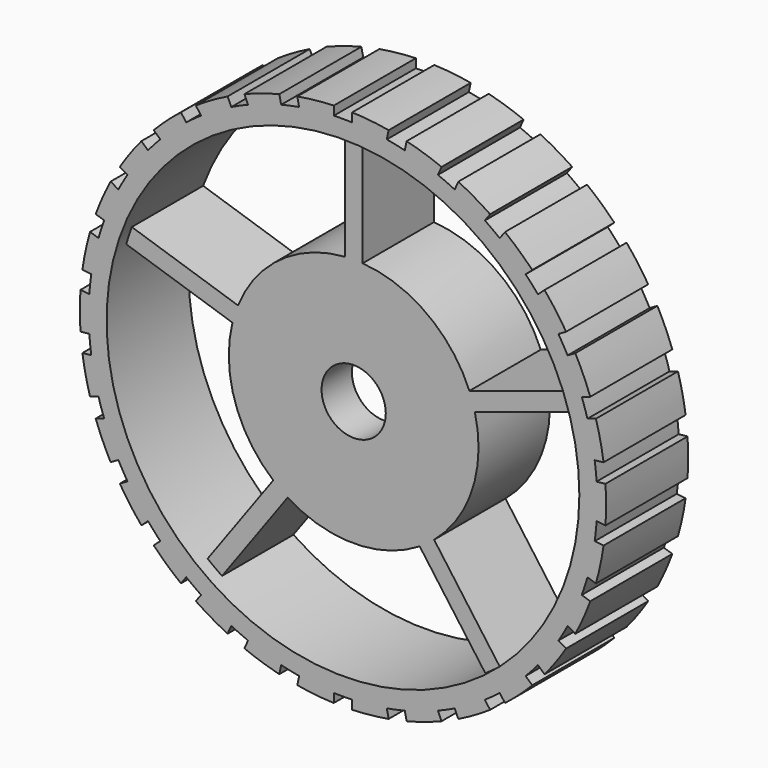
from build123d import *

# Parameters (mm, degrees)
SKETCH_R              = 29.5
PAD_DEPTH             = 11.5
SKETCH001_R           = 26.5
POCKET_DEPTH          = 11.501
PAD001_DEPTH          = 10
POLARPATTERN_COUNT    = 5
SKETCH003_R           = 14
SKETCH003_R_2         = 3.6
PAD002_DEPTH          = 10
SKETCH004_W           = 14
SKETCH004_H           = 14
POCKET001_DEPTH       = 5.75
SKETCH005_R           = 11.3
POCKET002_DEPTH       = 4
POCKET003_DEPTH       = 179.9557416964
POLARPATTERN001_COUNT = 30


with BuildPart() as part:
    # Sketch → Pad (new body)
    with BuildSketch(Plane.XZ):
        Circle(SKETCH_R)
    extrude(amount=PAD_DEPTH)

    # Sketch001 (on Face3 of Pad) → Pocket (cut, through all)
    with BuildSketch(Plane.XZ.offset(11.5)):
        Circle(SKETCH001_R)
    extrude(amount=-POCKET_DEPTH, mode=Mode.SUBTRACT)

    # Sketch002 → Pad001 (join)
    with BuildSketch(Plane.XZ):
        with BuildLine():
            ThreePointArc((1, 13.9642400438), (0, 14), (-1, 13.9642400438))
            Line((-1, 13.9642400438), (-1, 26.4811253537))
            ThreePointArc((1, 26.4811253537), (0, 26.5), (-1, 26.4811253537))
            Line((1, 13.9642400438), (1, 26.4811253537))
        make_face()
    pad001 = extrude(amount=PAD001_DEPTH)

    # PolarPattern: Pad001 ×5 about axis
    polarpattern_axis = Axis((0, 0, 0), (0, -1, 0))
    for i in range(1, POLARPATTERN_COUNT):
        add(pad001.rotate(polarpattern_axis, i * 360 / POLARPATTERN_COUNT))

    # Sketch003 → Pad002 (join)
    with BuildSketch(Plane.XZ):
        Circle(SKETCH003_R)
        Circle(SKETCH003_R_2, mode=Mode.SUBTRACT)
    extrude(amount=PAD002_DEPTH)

    # Sketch004 (on Face2 of Pad002) → Pocket001 (cut)
    with BuildSketch(Plane(origin=(0, 0, 0), x_dir=(1, 0, 0), z_dir=(0, 1, 0))):
        Rectangle(SKETCH004_W, SKETCH004_H)
    extrude(amount=-POCKET001_DEPTH, mode=Mode.SUBTRACT)

    # Sketch005 (on Face2 of Pocket001) → Pocket002 (cut)
    with BuildSketch(Plane(origin=(0, 0, 0), x_dir=(1, 0, 0), z_dir=(0, 1, 0))):
        Circle(SKETCH005_R)
    extrude(amount=-POCKET002_DEPTH, mode=Mode.SUBTRACT)

    # Sketch006 (on Face34 of Pocket002) → Pocket003 (cut, through all)
    with BuildSketch(Plane.XZ.offset(11.5)):
        with BuildLine():
            Line((-1.03, 29.4820131606), (-1.03, 28.4813816379))
            ThreePointArc((1.03, 28.4813816378), (0, 28.5), (-1.03, 28.4813816378))
            Line((1.03, 29.4820131606), (1.03, 28.4813816378))
            ThreePointArc((1.03, 29.4820131606), (0, 29.5), (-1.03, 29.4820131606))
        make_face()
    pocket003 = extrude(amount=-POCKET003_DEPTH, mode=Mode.SUBTRACT)

    # PolarPattern001: Pocket003 ×30 about axis
    polarpattern001_axis = Axis((0, -11.5, 0), (0, -1, 0))
    for i in range(1, POLARPATTERN001_COUNT):
        add(pocket003.rotate(polarpattern001_axis, i * 360 / POLARPATTERN001_COUNT), mode=Mode.SUBTRACT)


solid = part.part
